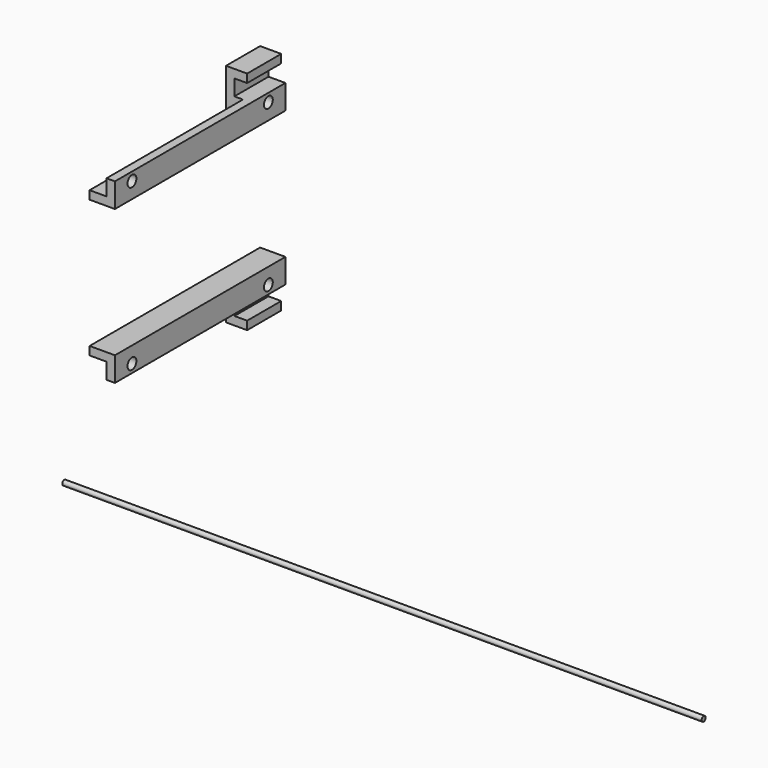
from build123d import *

# Parameters (mm, degrees)
F1_DEPTH      = 127
F2_R          = 1.5
F3_DEPTH      = 381
F6_DEPTH      = 12.7
F6_DEPTH_BACK = 12.7
F8_D          = 6.6


with BuildPart() as f1:
    # F0 (on Front) → F1 (new body)
    with BuildSketch(Plane.XZ):
        Polygon((5, 0), (0, 0), (-10.0800054, 0), (-10.0800054, -5), (0, -5), (0, -14.525), (5, -14.525), align=None)
    extrude(amount=F1_DEPTH)

    # F5 (on offset) → F6 (join, two sides)
    with BuildSketch(Plane.XZ.offset(12.7)) as f6_sk:
        Polygon((-5.08, -14.525), (0, -14.525), (0, -9.525), (0, -5), (-10.0800054, -5), (-10.0800054, -23.963), (-10.0800054, -28.963), (2.5, -28.963), (2.5, -23.963), (-5.08, -23.963), align=None)
    extrude(amount=F6_DEPTH)
    extrude(f6_sk.sketch, amount=-F6_DEPTH_BACK)

    # F8 (through all)
    with Locations(Plane.YZ.offset(5)):
        with Locations((-114.3, -9.525), (-12.7, -9.525)):
            Hole(F8_D / 2)


with BuildPart() as f3:
    # F2 (on Right) → F3 (new body)
    with BuildSketch(Plane.YZ):
        with Locations((-158.4474891424, -55.6548647583)):
            Circle(F2_R)
    extrude(amount=F3_DEPTH)


with BuildPart() as f9_1:
    # F9: instance of F1
    add(f1.part.mirror(Plane(origin=(-2.5400027, -63.5, 0), x_dir=(1, 0, 0), z_dir=(0, 0, 1))))


with BuildPart() as f9_1_1:
    # F10: moved
    add(f9_1.part.moved(Location((0, 0, 76.708))))


solid = Compound([f1.part, f3.part, f9_1_1.part])
